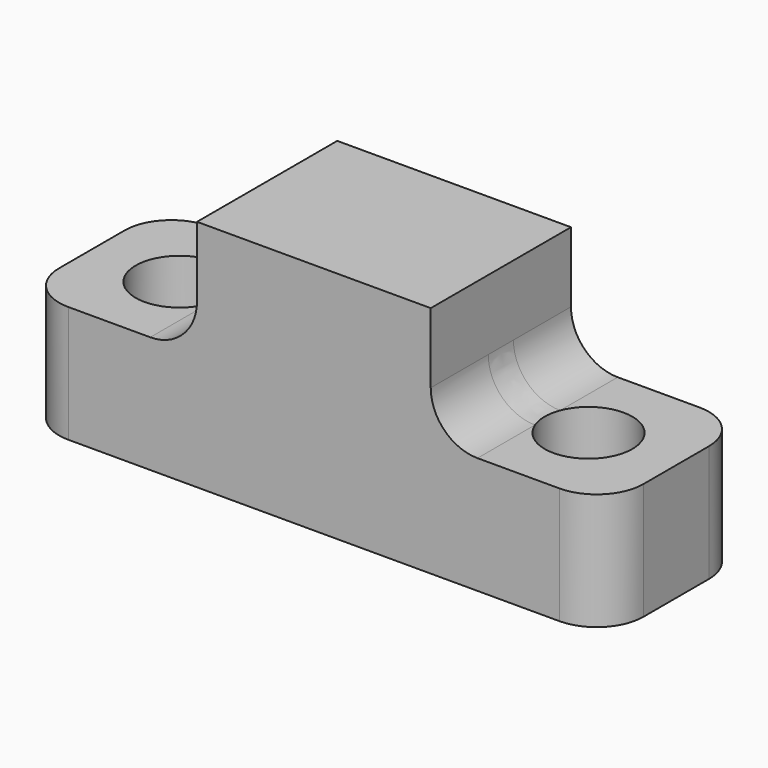
from build123d import *

# Parameters (mm, degrees)
F1_DEPTH = 19.05
F3_DEPTH = 25.4
F4_R     = 5.08


with BuildPart() as f1:
    # F0 (on Front) → F1 (new body)
    with BuildSketch(Plane.XZ):
        Polygon((0, 12.7), (0, 0), (31.75, 0), (31.75, 25.4), (19.05, 25.4), (19.05, 12.7), align=None)
    extrude(amount=F1_DEPTH)

    # F2 (on face) → F3 (cut)
    with BuildSketch(Plane.XY.offset(12.7)):
        with BuildLine():
            ThreePointArc((14.2875, -9.525), (12.8925960454, -6.1574039546), (9.525, -4.7625))
            Line((9.525, -4.7625), (9.525, -9.525))
            Line((9.525, -9.525), (4.7625, -9.525))
            ThreePointArc((4.7625, -9.525), (9.525, -14.2875), (14.2875, -9.525))
        make_face()
        with BuildLine():
            Line((9.525, -9.525), (9.525, -4.7625))
            ThreePointArc((9.525, -4.7625), (6.1574039546, -6.1574039546), (4.7625, -9.525))
            Line((4.7625, -9.525), (9.525, -9.525))
        make_face()
    extrude(amount=-F3_DEPTH, mode=Mode.SUBTRACT)

    # F4
    f4_edges = [f1.edges().sort_by_distance(p)[0] for p in [
        (0, -19.05, 6.35),
        (0, 0, 6.35),
        (19.05, -9.525, 12.7),
    ]]
    fillet(f4_edges, radius=F4_R)

    # F5: F1 across face


with BuildPart() as f1_1:
    add(f1.part)
    add(f1.part.mirror(Plane(origin=(31.75, -9.525, 12.7), x_dir=(0, 1, 0), z_dir=(1, 0, 0))))


solid = f1_1.part
